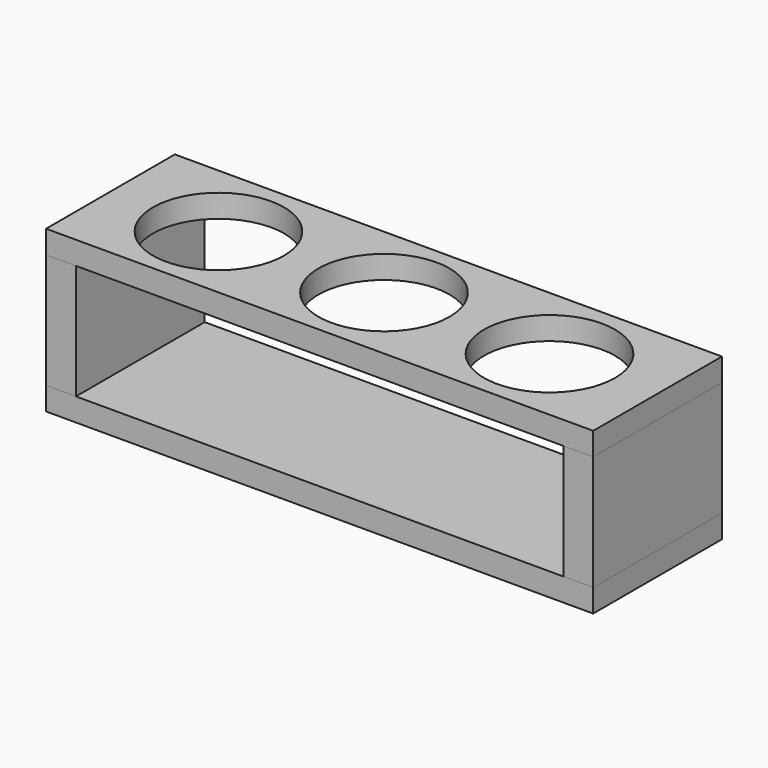
from build123d import *

# Parameters (mm, degrees)
F0_W     = 238
F0_H     = 70
F1_DEPTH = 10
F3_W     = 238
F3_H     = 70
F3_R     = 28.5
F4_DEPTH = 10
F5_W     = 13
F5_H     = 70
F6_DEPTH = 50


with BuildPart() as f1:
    # F0 (on Top) → F1 (new body)
    with BuildSketch(Plane.XY):
        Rectangle(F0_W, F0_H)
    extrude(amount=F1_DEPTH)


with BuildPart() as f4:
    # F3 (on offset) → F4 (new body)
    with BuildSketch(Plane.XY.offset(60)):
        Rectangle(F3_W, F3_H)
        with Locations((-72, 0)):
            Circle(F3_R, mode=Mode.SUBTRACT)
        Circle(F3_R, mode=Mode.SUBTRACT)
        with Locations((72, 0)):
            Circle(F3_R, mode=Mode.SUBTRACT)
    extrude(amount=F4_DEPTH)


with BuildPart() as f6:
    # F5 (on face) → F6 (new body, through all)
    with BuildSketch(Plane.XY.offset(10)):
        with Locations((-112.5, 0)):
            Rectangle(F5_W, F5_H)
        with Locations((112.5, 0)):
            Rectangle(F5_W, F5_H)
    extrude(amount=F6_DEPTH)


solid = Compound([f1.part, f4.part, f6.part])
